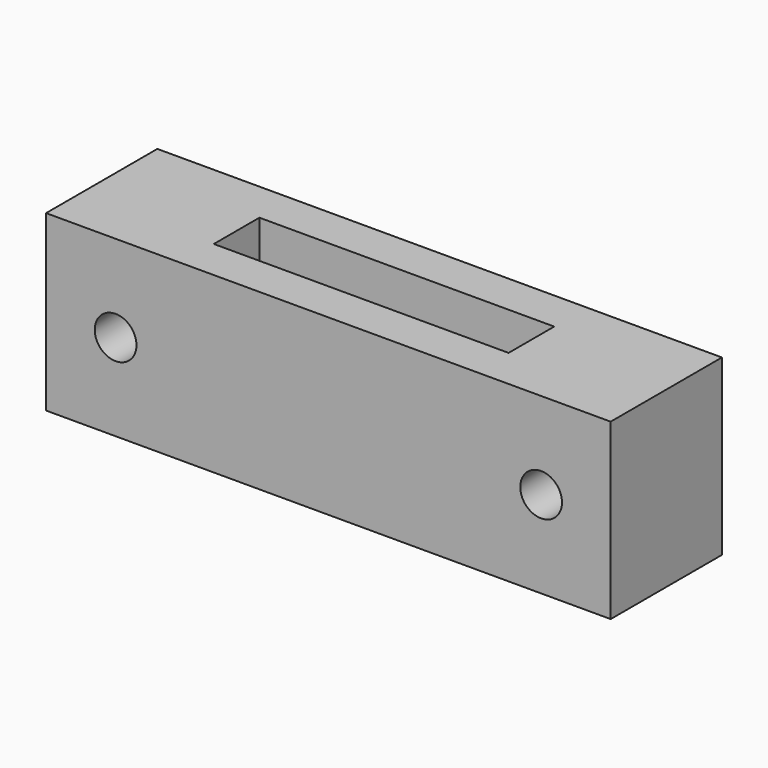
from build123d import *

# Parameters (mm, degrees)
F0_W     = 20.3
F0_H     = 5
F0_W_2   = 10.6
F0_H_2   = 2.05
F1_DEPTH = 6.25
F2_R     = 0.75
F3_DEPTH = 3.9


with BuildPart() as f1:
    # F0 (on Top) → F1 (new body)
    with BuildSketch(Plane.XY):
        Rectangle(F0_W, F0_H)
        Rectangle(F0_W_2, F0_H_2, mode=Mode.SUBTRACT)
    extrude(amount=F1_DEPTH)

    # F2 (on Front) → F3 (cut, symmetric)
    with BuildSketch(Plane.XZ):
        with Locations((-7.65, 3.125)):
            Circle(F2_R)
        with Locations((7.65, 3.125)):
            Circle(F2_R)
    extrude(amount=F3_DEPTH, both=True, mode=Mode.SUBTRACT)


solid = f1.part
